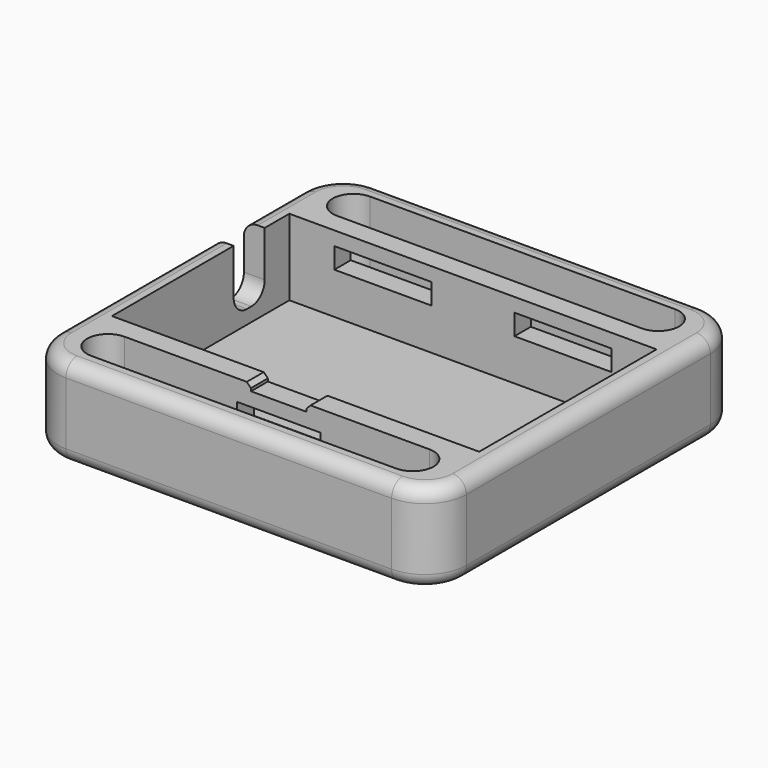
from build123d import *

# Parameters (mm, degrees)
EXTRUDE007_START                     = 4.5
SKETCH007_W                          = 4
SKETCH007_H                          = 3
EXTRUDE007_DEPTH                     = 0.5
EXTRUDE006_START                     = -4
SKETCH006_AS_DRAWN_W                 = 6
SKETCH006_AS_DRAWN_H                 = 1.5
EXTRUDE006_DEPTH                     = 4
EXTRUDE006_ONTO_SKETCH006_ROLL_ANGLE = 90
EXTRUDE005_DEPTH                     = 2
EXTRUDE003_START                     = -15
SKETCH003_AS_DRAWN_W                 = 7
SKETCH003_AS_DRAWN_H                 = 1.5
EXTRUDE003_DEPTH                     = 10
EXTRUDE003_ONTO_SKETCH003_ROLL_ANGLE = 90
EXTRUDE002_DEPTH                     = 6
EXTRUDE002_DEPTH_BACK                = 2
SKETCH_W                             = 26.5
SKETCH_H                             = 16
EXTRUDE001_DEPTH                     = 6
EXTRUDE001_DEPTH_BACK                = 0.5
EXTRUDE_DEPTH                        = 5
EXTRUDE_DEPTH_BACK                   = 1.5
FILLET_R                             = 1
CHAMFER_SIZE                         = 0.3


with BuildPart() as extrude007:
    # Sketch007 (on Cut) → Extrude007 (new body)
    with BuildSketch(Plane.XY.offset(EXTRUDE007_START)):
        with Locations((14.75, 5.419451)):
            Rectangle(SKETCH007_W, SKETCH007_H)
    extrude(amount=EXTRUDE007_DEPTH)


with BuildPart() as extrude006:
    # Sketch006 as drawn → Extrude006 (new)
    with BuildSketch(Plane.XY.offset(EXTRUDE006_START)):
        with Locations((14.75, 2.75)):
            Rectangle(SKETCH006_AS_DRAWN_W, SKETCH006_AS_DRAWN_H)
    extrude(amount=-EXTRUDE006_DEPTH)


with BuildPart() as extrude006_1:
    # Extrude006 onto Sketch006 roll: moved
    add(extrude006.part.rotate(Axis((0, 0, 0), (1, 0, 0)), EXTRUDE006_ONTO_SKETCH006_ROLL_ANGLE))


with BuildPart() as extrude006_2:
    # Extrude006 onto Sketch006 placement: moved
    add(extrude006_1.part)


with BuildPart() as extrude005:
    # Sketch005 → Extrude005 (new body)
    with BuildSketch(Plane.YZ):
        with BuildLine():
            Line((17, 5), (19.8, 5))
            Line((19.8, 5), (19.8, 1.7))
            ThreePointArc((18.6, 0.5), (19.448528, 0.851472), (19.8, 1.7))
            Line((18.6, 0.5), (18.2, 0.5))
            ThreePointArc((17, 1.7), (17.351472, 0.851472), (18.2, 0.5))
            Line((17, 1.7), (17, 5))
        make_face()
    extrude(amount=EXTRUDE005_DEPTH)


with BuildPart() as extrude003:
    # Sketch003 as drawn → Extrude003 (new)
    with BuildSketch(Plane.XY.offset(EXTRUDE003_START)):
        with Locations((8.25, 3.25)):
            Rectangle(SKETCH003_AS_DRAWN_W, SKETCH003_AS_DRAWN_H)
        with Locations((21.25, 3.25)):
            Rectangle(SKETCH003_AS_DRAWN_W, SKETCH003_AS_DRAWN_H)
    extrude(amount=-EXTRUDE003_DEPTH)


with BuildPart() as extrude003_1:
    # Extrude003 onto Sketch003 roll: moved
    add(extrude003.part.rotate(Axis((0, 0, 0), (1, 0, 0)), EXTRUDE003_ONTO_SKETCH003_ROLL_ANGLE))


with BuildPart() as extrude003_2:
    # Extrude003 onto Sketch003 placement: moved
    add(extrude003_1.part)


with BuildPart() as extrude002:
    # Sketch002 → Extrude002 (new body, two sides)
    with BuildSketch(Plane.XY) as extrude002_sk:
        with BuildLine():
            ThreePointArc((3.75, 26.5), (2.25, 25), (3.75, 23.5))
            Line((3.75, 23.5), (25.75, 23.5))
            ThreePointArc((25.75, 23.5), (27.25, 25), (25.75, 26.5))
            Line((3.75, 26.5), (25.75, 26.5))
        make_face()
        with BuildLine():
            ThreePointArc((3.628907, 4.5), (2.128907, 3), (3.628907, 1.5))
            Line((3.628907, 1.5), (25.628907, 1.5))
            ThreePointArc((25.628907, 1.5), (27.128907, 3), (25.628907, 4.5))
            Line((3.628907, 4.5), (25.628907, 4.5))
        make_face()
    extrude(amount=EXTRUDE002_DEPTH)
    extrude(extrude002_sk.sketch, amount=-EXTRUDE002_DEPTH_BACK)


with BuildPart() as extrude001:
    # Sketch → Extrude001 (new body, two sides)
    with BuildSketch(Plane.XY) as extrude001_sk:
        with Locations((14.75, 14.020797)):
            Rectangle(SKETCH_W, SKETCH_H)
    extrude(amount=EXTRUDE001_DEPTH)
    extrude(extrude001_sk.sketch, amount=-EXTRUDE001_DEPTH_BACK)


with BuildPart() as chamfer_body:
    # Sketch001 (on Sketch) → Extrude (new body, two sides)
    with BuildSketch(Plane.XY) as extrude_sk:
        with BuildLine():
            Line((3, 28), (26.5, 28))
            ThreePointArc((29.5, 25), (28.62132, 27.12132), (26.5, 28))
            Line((29.5, 25), (29.5, 3))
            ThreePointArc((26.5, 0), (28.62132, 0.87868), (29.5, 3))
            Line((26.5, 0), (3, 0))
            ThreePointArc((0, 3), (0.87868, 0.87868), (3, 0))
            Line((0, 3), (0, 25))
            ThreePointArc((3, 28), (0.87868, 27.12132), (0, 25))
        make_face()
    extrude(amount=EXTRUDE_DEPTH)
    extrude(extrude_sk.sketch, amount=-EXTRUDE_DEPTH_BACK)

    # Cut: cut Extrude001
    add(extrude001.part, mode=Mode.SUBTRACT)

    # Cut001: cut Extrude002
    add(extrude002.part, mode=Mode.SUBTRACT)

    # Cut002: cut Extrude003
    add(extrude003_2.part, mode=Mode.SUBTRACT)

    # Fillet
    fillet_edges = [chamfer_body.edges().sort_by_distance(p)[0] for p in [
        (0, 14, -1.5),
        (0, 14, 5),
        (0.87868, 0.87868, -1.5),
        (0.87868, 0.87868, 5),
        (0.87868, 27.12132, -1.5),
        (14.75, 0, -1.5),
        (14.75, 28, -1.5),
        (28.62132, 0.87868, -1.5),
        (28.62132, 27.12132, -1.5),
        (29.5, 14, -1.5),
        (14.75, 0, 5),
        (14.75, 28, 5),
        (28.62132, 0.87868, 5),
        (28.62132, 27.12132, 5),
        (29.5, 14, 5),
    ]]
    fillet(fillet_edges, radius=FILLET_R)

    # Cut004: cut Extrude005
    add(extrude005.part, mode=Mode.SUBTRACT)

    # Cut005: cut Extrude006
    add(extrude006_2.part, mode=Mode.SUBTRACT)

    # Cut006: cut Extrude007
    add(extrude007.part, mode=Mode.SUBTRACT)

    # Chamfer
    chamfer_edges = [chamfer_body.edges().sort_by_distance(p)[0] for p in [
        (12.75, 5.260399, 5),
        (16.75, 5.260399, 5),
    ]]
    chamfer(chamfer_edges, length=CHAMFER_SIZE)


solid = chamfer_body.part
